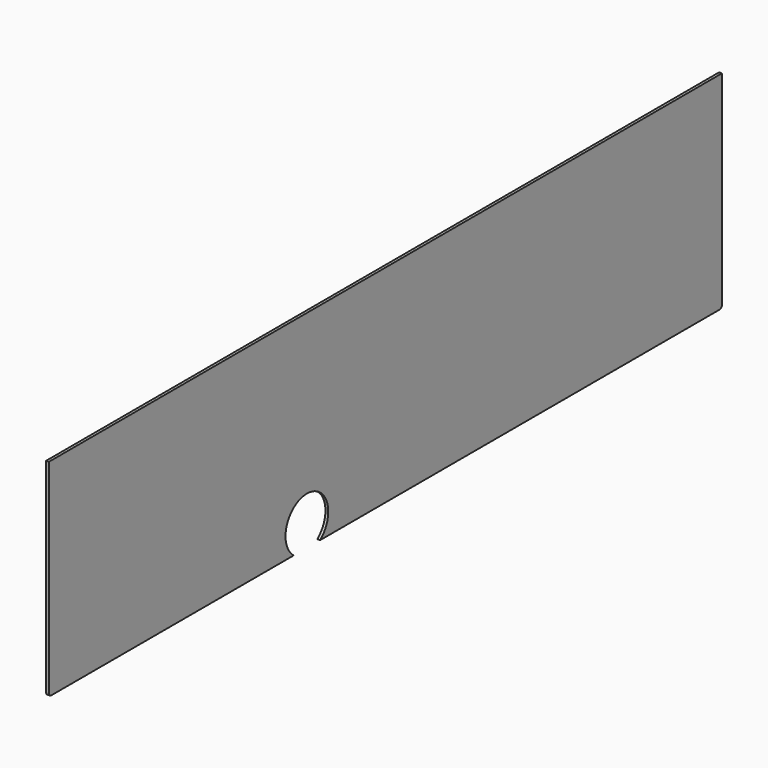
from build123d import *

# Parameters (mm, degrees)
F0_W     = 600
F0_H     = 147.5
F1_DEPTH = 2
F2_R     = 2
F3_R     = 19.05
F4_DEPTH = 25


with BuildPart() as f1:
    # F0 (on Right) → F1 (new body)
    with BuildSketch(Plane.YZ):
        Rectangle(F0_W, F0_H)
    extrude(amount=F1_DEPTH)

    # F2
    f2_edges = [f1.edges().sort_by_distance(p)[0] for p in [
        (1, -300, -73.75),
        (1, 300, -73.75),
    ]]
    fillet(f2_edges, radius=F2_R)

    # F3 (on face) → F4 (cut)
    with BuildSketch(Plane.YZ.offset(2)):
        with Locations((-70, -58.75)):
            Circle(F3_R)
    extrude(amount=-F4_DEPTH, mode=Mode.SUBTRACT)


solid = f1.part
